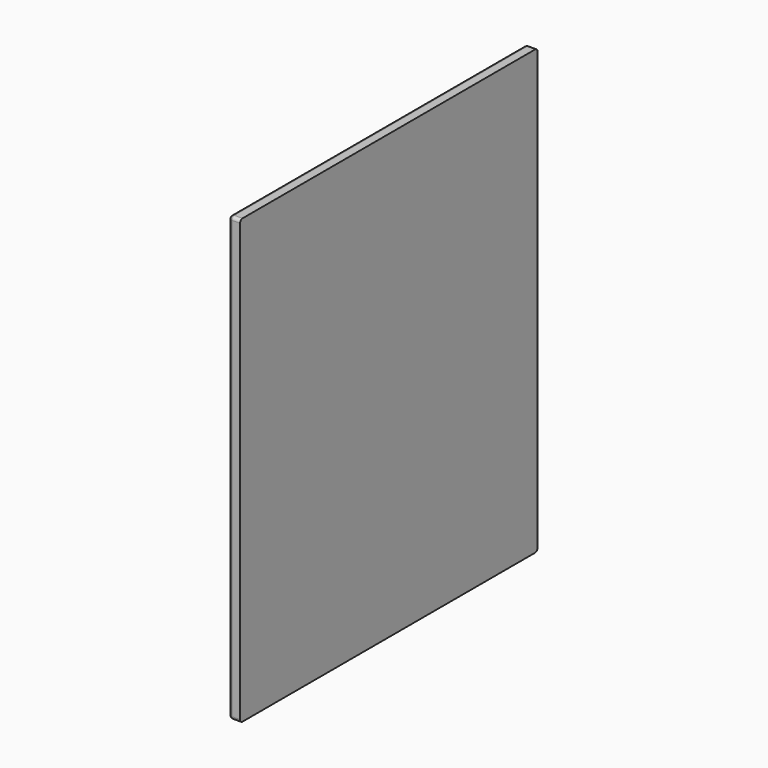
from build123d import *

# Parameters (mm, degrees)
F0_W     = 600
F0_H     = 715
F1_DEPTH = 9
F2_R     = 5


with BuildPart() as f1:
    # F0 (on Right) → F1 (new body, symmetric)
    with BuildSketch(Plane.YZ):
        Rectangle(F0_W, F0_H)
    extrude(amount=F1_DEPTH, both=True)

    # F2
    f2_edges = [f1.edges().sort_by_distance(p)[0] for p in [
        (-9, 0, 357.5),
        (-9, -300, 0),
        (-9, 0, -357.5),
        (-9, 300, 0),
        (0, 300, 357.5),
        (0, 300, -357.5),
        (0, -300, -357.5),
        (0, -300, 357.5),
    ]]
    fillet(f2_edges, radius=F2_R)


solid = f1.part
